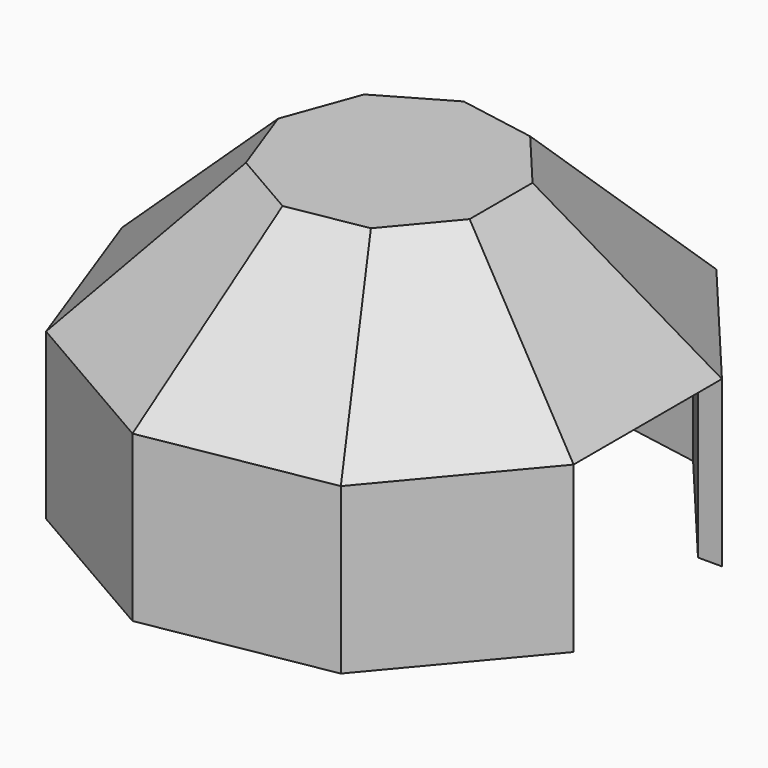
from build123d import *

# Parameters (mm, degrees)
F1_DEPTH = 85
F2_SIZE  = 40
F3_T     = -5
F4_W     = 50.557665
F4_H     = 45
F5_DEPTH = 70


with BuildPart() as f1:
    # F0 (on Top) → F1 (new body)
    with BuildSketch(Plane.XY):
        Polygon((-4.485587, -1.35111), (-4.485587, 49.206555), (-36.983427, 87.935973), (-86.773008, 96.715219), (-130.55723, 71.436387), (-147.84897, 23.927722), (-130.55723, -23.580943), (-86.773008, -48.859775), (-36.983427, -40.080529), align=None)
    extrude(amount=F1_DEPTH)

    # F2
    f2_edges = [f1.edges().sort_by_distance(p)[0] for p in [
        (-20.734507, -20.71582, 85),
        (-4.485587, 23.927722, 85),
        (-20.734507, 68.571264, 85),
        (-61.878218, 92.325596, 85),
        (-108.665119, 84.075803, 85),
        (-139.2031, 47.682054, 85),
        (-139.2031, 0.17339, 85),
        (-108.665119, -36.220359, 85),
        (-61.878218, -44.470152, 85),
    ]]
    chamfer(f2_edges, length=F2_SIZE)

    # F3
    f3_openings = [f1.faces().sort_by_distance(p)[0] for p in [
        (-73.938608, 23.927722, 0),
    ]]
    offset(amount=F3_T, openings=f3_openings)

    # F4 (on face) → F5 (cut)
    with BuildSketch(Plane.YZ.offset(-4.485587)):
        with Locations((23.927722, 22.5)):
            Rectangle(F4_W, F4_H)
    extrude(amount=-F5_DEPTH, mode=Mode.SUBTRACT)


solid = f1.part
